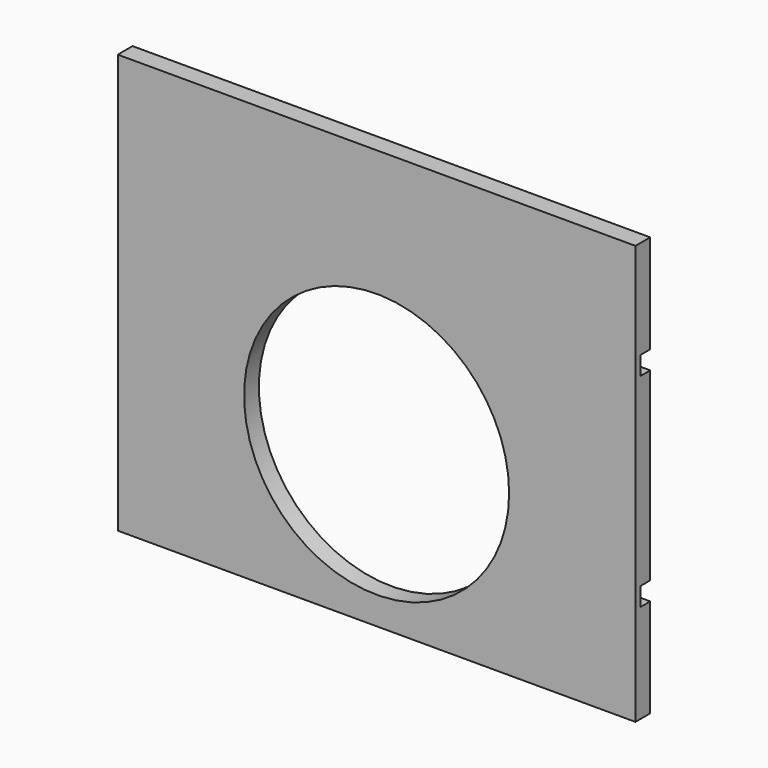
from build123d import *

# Parameters (mm, degrees)
F0_W     = 533.4
F0_H     = 431.8
F0_R     = 136.525
F1_DEPTH = 19.05
F3_W     = 76.2
F3_H     = 19.05
F4_DEPTH = 12.7


with BuildPart() as f1:
    # F0 (on Front) → F1 (new body)
    with BuildSketch(Plane.XZ):
        Rectangle(F0_W, F0_H)
        with Locations((0, -50.8)):
            Circle(F0_R, mode=Mode.SUBTRACT)
    extrude(amount=-F1_DEPTH)

    # F3 (on face) → F4 (cut)
    with BuildSketch(Plane(origin=(0, 19.05, 0), x_dir=(-1, 0, 0), z_dir=(0, 1, 0))):
        with Locations((-228.6, 104.775)):
            Rectangle(F3_W, F3_H)
        with Locations((-228.6, -104.775)):
            Rectangle(F3_W, F3_H)
        with Locations((228.6, 104.775)):
            Rectangle(F3_W, F3_H)
        with Locations((228.6, -104.775)):
            Rectangle(F3_W, F3_H)
    extrude(amount=-F4_DEPTH, mode=Mode.SUBTRACT)


solid = f1.part
